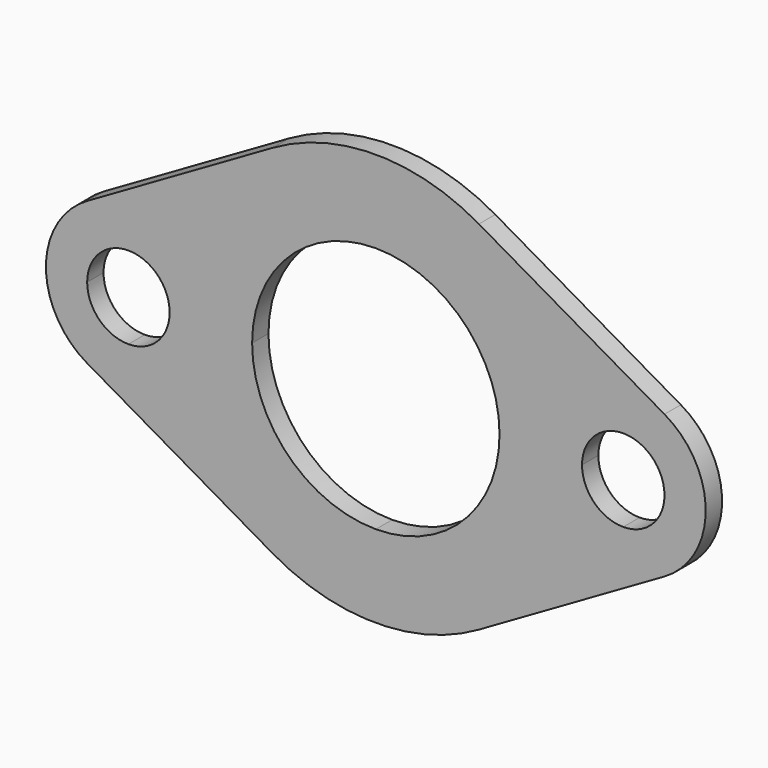
from build123d import *

# Parameters (mm, degrees)
F1_DEPTH = 1.5748


with BuildPart() as f1:
    # F0 (on Front) → F1 (new body)
    with BuildSketch(Plane.XZ):
        with BuildLine():
            Line((-7.9375, 13.748153), (-22.225, 5.499261))
            ThreePointArc((-22.225, 5.499261), (-25.4, 0), (-22.225, -5.499261))
            Line((-22.225, -5.499261), (-7.9375, -13.748153))
            ThreePointArc((-7.9375, -13.748153), (0, -15.875), (7.9375, -13.748153))
            Line((7.9375, -13.748153), (22.225, -5.499261))
            ThreePointArc((22.225, -5.499261), (25.4, 0), (22.225, 5.499261))
            Line((22.225, 5.499261), (7.9375, 13.748153))
            ThreePointArc((7.9375, 13.748153), (0, 15.875), (-7.9375, 13.748153))
        make_face()
        with BuildLine():
            ThreePointArc((-19.05, 3.175), (-16.804936, 2.245064), (-15.875, 0))
            ThreePointArc((-15.875, 0), (-16.804936, -2.245064), (-19.05, -3.175))
            ThreePointArc((-19.05, -3.175), (-21.295064, -2.245064), (-22.225, 0))
            ThreePointArc((-22.225, 0), (-21.295064, 2.245064), (-19.05, 3.175))
        make_face(mode=Mode.SUBTRACT)
        with BuildLine():
            ThreePointArc((0, 9.525), (6.735192, 6.735192), (9.525, 0))
            ThreePointArc((9.525, 0), (6.735192, -6.735192), (0, -9.525))
            ThreePointArc((0, -9.525), (-6.735192, -6.735192), (-9.525, 0))
            ThreePointArc((-9.525, 0), (-6.735192, 6.735192), (0, 9.525))
        make_face(mode=Mode.SUBTRACT)
        with BuildLine():
            ThreePointArc((19.05, 3.175), (21.295064, 2.245064), (22.225, 0))
            ThreePointArc((22.225, 0), (21.295064, -2.245064), (19.05, -3.175))
            ThreePointArc((19.05, -3.175), (16.804936, -2.245064), (15.875, 0))
            ThreePointArc((15.875, 0), (16.804936, 2.245064), (19.05, 3.175))
        make_face(mode=Mode.SUBTRACT)
    extrude(amount=F1_DEPTH)


solid = f1.part
